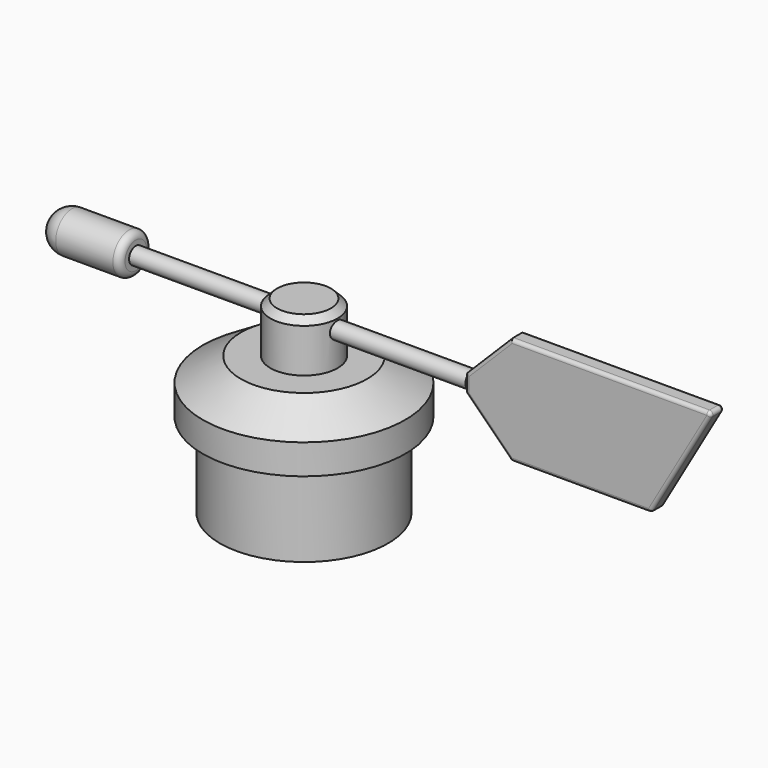
from build123d import *

# Parameters (mm, degrees)
F5_R      = 2.5
F6_DEPTH  = 50
F8_R      = 6
F9_DEPTH  = 25
F10_R     = 6
F11_R     = 2
F13_DEPTH = 2.5
F14_R     = 1
F15_SIZE  = 2
F16_DEPTH = 12.5


with BuildPart() as f1:
    # F0 (on Front) → F1 (revolve)
    with BuildSketch(Plane.XZ):
        Polygon((-3, 0), (0, 0), (0, 20), (-3, 20), (-3, 6), (-3, 5), align=None)
    revolve(axis=Axis((0, 0, 10), (0, 0, 1)))

    # F0 (on Front) → F2 (revolve)
    with BuildSketch(Plane.XZ):
        Polygon((0, -25), (0, 0), (-3, 0), (-15, 0), (-15, -10), (-15, -25), align=None)
    revolve(axis=Axis((0, 0, 10), (0, 0, 1)))


with BuildPart() as f3:
    # F0 (on Front) → F3 (revolve)
    with BuildSketch(Plane.XZ):
        Polygon((0, -35), (0, -25), (-15, -25), (-15, -10), (-25, -10), (-25, -35), align=None)
    revolve(axis=Axis((0, 0, 10), (0, 0, 1)))


with BuildPart() as f4:
    # F0 (on Front) → F4 (revolve)
    with BuildSketch(Plane.XZ):
        Polygon((-3, 20), (0, 20), (0, 21), (-10, 21), (-10, 6), (-3, 6), align=None)
        Polygon((-18.4238955249, 5), (-3, 5), (-3, 6), (-10, 6), (-18.7623279487, 6), (-30.0749070195, -1.0358732022), (-30.0749070195, -9.9341836239), (-28.9961416274, -9.9341836239), (-28.9961416274, -1.575422154), align=None)
    revolve(axis=Axis((0, 0, 10), (0, 0, 1)))

    # F15
    f15_edges = [f4.edges().sort_by_distance(p)[0] for p in [
        (10, 0, 21),
    ]]
    chamfer(f15_edges, length=F15_SIZE)

    # F5 (on Right) → F16 (cut, symmetric)
    with BuildSketch(Plane.YZ):
        with Locations((0, 16)):
            Circle(F5_R)
    extrude(amount=F16_DEPTH, both=True, mode=Mode.SUBTRACT)


with BuildPart() as f6:
    # F5 (on Right) → F6 (new body, symmetric)
    with BuildSketch(Plane.YZ):
        with Locations((0, 16)):
            Circle(F5_R)
    extrude(amount=F6_DEPTH, both=True)


with BuildPart() as f9:
    # F8 (on offset) → F9 (new body)
    with BuildSketch(Plane(origin=(-50, 0, 0), x_dir=(0, -1, 0), z_dir=(-1, 0, 0))):
        with Locations((0, 16)):
            Circle(F8_R)
    extrude(amount=F9_DEPTH)

    # F10
    f10_edges = [f9.edges().sort_by_distance(p)[0] for p in [
        (-75, 6, 16),
    ]]
    fillet(f10_edges, radius=F10_R)

    # F11
    f11_edges = [f9.edges().sort_by_distance(p)[0] for p in [
        (-50, 6, 16),
    ]]
    fillet(f11_edges, radius=F11_R)


with BuildPart() as f13:
    # F12 (on Front) → F13 (new body, symmetric)
    with BuildSketch(Plane.XZ):
        Polygon((63.5, 32), (50, 18.5), (50, 13.5), (63.5, 0), (105.0247913859, 0), (123.5, 32), align=None)
    extrude(amount=F13_DEPTH, both=True)

    # F14
    f14_edges = [f13.edges().sort_by_distance(p)[0] for p in [
        (56.75, -2.5, 25.25),
        (50, -2.5, 16),
        (56.75, -2.5, 6.75),
        (84.262396, -2.5, 0),
        (114.262396, -2.5, 16),
        (93.5, -2.5, 32),
        (56.75, 2.5, 25.25),
        (50, 2.5, 16),
        (56.75, 2.5, 6.75),
        (84.262396, 2.5, 0),
        (114.262396, 2.5, 16),
        (93.5, 2.5, 32),
        (63.5, 0, 0),
        (123.5, 0, 32),
        (105.024791, 0, 0),
    ]]
    fillet(f14_edges, radius=F14_R)


solid = Compound([f1.part, f3.part, f4.part, f6.part, f9.part, f13.part])
